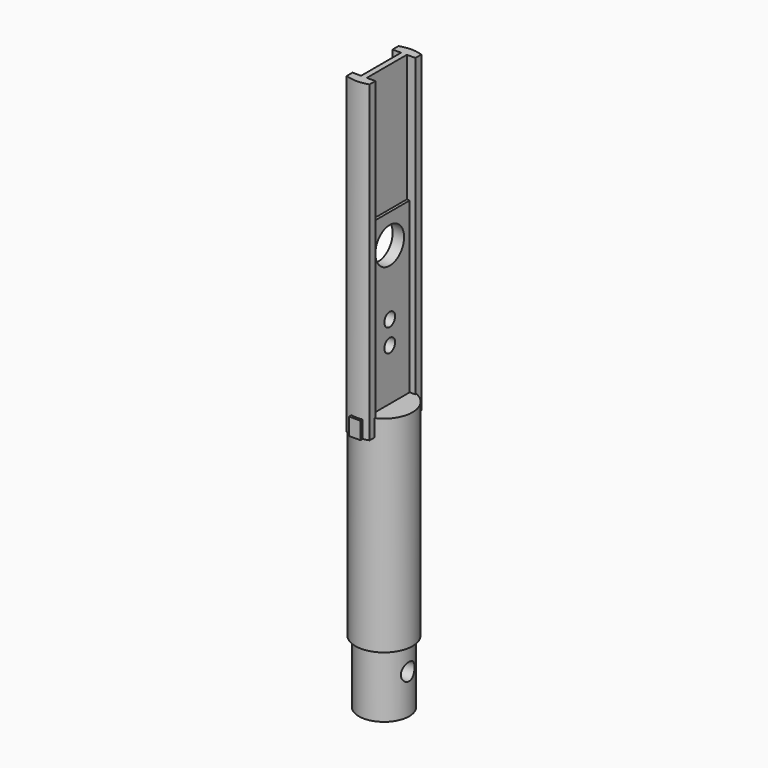
from build123d import *

# Parameters (mm, degrees)
BOX002_W          = 1
BOX002_H          = 6.4
BOX002_DEPTH      = 1.5
BOX006_W          = 10
BOX006_H          = 4.37
BOX006_DEPTH      = 12
BOX005_W          = 10
BOX005_H          = 4.37
BOX005_DEPTH      = 12
CYLINDER008_R     = 0.59
CYLINDER008_DEPTH = 50
CYLINDER007_R     = 0.59
CYLINDER007_DEPTH = 50
BOX003_W          = 10
BOX003_H          = 4.37
BOX003_DEPTH      = 26
BOX004_W          = 10
BOX004_H          = 4.37
BOX004_DEPTH      = 26
BOX001_W          = 10
BOX001_H          = 5.5
BOX001_DEPTH      = 27
CYLINDER006_R     = 1.57
CYLINDER006_DEPTH = 20
CYLINDER003_R     = 1.1
CYLINDER003_DEPTH = 2
BOX_W             = 2
BOX_H             = 10
BOX_DEPTH         = 27.9
CYLINDER004_R     = 3
CYLINDER004_DEPTH = 27.4
CYLINDER005_R     = 1
CYLINDER005_DEPTH = 5.5
CYLINDER002_R     = 0.75
CYLINDER002_DEPTH = 6.2
CYLINDER001_R     = 2.5
CYLINDER001_DEPTH = 18
CYLINDER_R        = 2.2
CYLINDER_DEPTH    = 21.5


with BuildPart() as obj1:
    # Box002 → Box002 (new body)
    with BuildSketch(Plane(origin=(-0.5, -3.2, 21.5), x_dir=(1, 0, 0), z_dir=(0, 0, 1))):
        with Locations((0.5, 3.2)):
            Rectangle(BOX002_W, BOX002_H)
    extrude(amount=BOX002_DEPTH)


with BuildPart() as obj2:
    # Box006 → Box006 (new body)
    with BuildSketch(Plane(origin=(-10.25, -2.19, 36.77), x_dir=(1, 0, 0), z_dir=(0, 0, 1))):
        with Locations((5, 2.185)):
            Rectangle(BOX006_W, BOX006_H)
    extrude(amount=BOX006_DEPTH)


with BuildPart() as fusion004:
    # Box005 → Box005 (new body)
    with BuildSketch(Plane(origin=(0.25, -2.19, 36.77), x_dir=(1, 0, 0), z_dir=(0, 0, 1))):
        with Locations((5, 2.185)):
            Rectangle(BOX005_W, BOX005_H)
    extrude(amount=BOX005_DEPTH)

    # Fusion004: union obj2
    add(obj2.part)


with BuildPart() as fusion004_1:
    # Fusion004 placement: moved
    add(fusion004.part.moved(Location((0, 0, 1))))


with BuildPart() as m1_6_thread2:
    # Cylinder008 → Cylinder008 (new body)
    with BuildSketch(Plane(origin=(-4, 0, 27.5), x_dir=(0, 0, -1), z_dir=(1, 0, 0))):
        Circle(CYLINDER008_R)
    extrude(amount=CYLINDER008_DEPTH)


with BuildPart() as mirrormountingholes:
    # Cylinder007 → Cylinder007 (new body)
    with BuildSketch(Plane(origin=(-4, 0, 29.5), x_dir=(0, 0, -1), z_dir=(1, 0, 0))):
        Circle(CYLINDER007_R)
    extrude(amount=CYLINDER007_DEPTH)

    # Fusion003: union M1_6__Thread2
    add(m1_6_thread2.part)


with BuildPart() as obj3:
    # Box003 → Box003 (new body)
    with BuildSketch(Plane(origin=(0.5, -2.19, 23), x_dir=(1, 0, 0), z_dir=(0, 0, 1))):
        with Locations((5, 2.185)):
            Rectangle(BOX003_W, BOX003_H)
    extrude(amount=BOX003_DEPTH)


with BuildPart() as mirrorgrooves:
    # Box004 → Box004 (new body)
    with BuildSketch(Plane(origin=(-10.5, -2.19, 23), x_dir=(1, 0, 0), z_dir=(0, 0, 1))):
        with Locations((5, 2.185)):
            Rectangle(BOX004_W, BOX004_H)
    extrude(amount=BOX004_DEPTH)

    # Fusion002: union obj3
    add(obj3.part)


with BuildPart() as obj4:
    # Box001 → Box001 (new body)
    with BuildSketch(Plane(origin=(1, -2.57, 21), x_dir=(1, 0, 0), z_dir=(0, 0, 1))):
        with Locations((5, 2.75)):
            Rectangle(BOX001_W, BOX001_H)
    extrude(amount=BOX001_DEPTH)


with BuildPart() as probehole:
    # Cylinder006 → Cylinder006 (new body)
    with BuildSketch(Plane(origin=(-4, 0, 35.2), x_dir=(0, 0, -1), z_dir=(1, 0, 0))):
        Circle(CYLINDER006_R)
    extrude(amount=CYLINDER006_DEPTH)


with BuildPart() as beamhole:
    # Cylinder003 → Cylinder003 (new body)
    with BuildSketch(Plane(origin=(-1, 0, 35.2), x_dir=(0, 0, -1), z_dir=(1, 0, 0))):
        Circle(CYLINDER003_R)
    extrude(amount=CYLINDER003_DEPTH)


with BuildPart() as obj5:
    # Box → Box (new body)
    with BuildSketch(Plane(origin=(-1, -5, 21), x_dir=(1, 0, 0), z_dir=(0, 0, 1))):
        with Locations((1, 5)):
            Rectangle(BOX_W, BOX_H)
    extrude(amount=BOX_DEPTH)


with BuildPart() as cut004:
    # Cylinder004 → Cylinder004 (new body)
    with BuildSketch(Plane.XY.offset(21.5)):
        Circle(CYLINDER004_R)
    extrude(amount=CYLINDER004_DEPTH)

    # Common: intersect obj5
    add(obj5.part, mode=Mode.INTERSECT)

    # Cut001: cut BeamHole
    add(beamhole.part, mode=Mode.SUBTRACT)

    # Cut003: cut ProbeHole
    add(probehole.part, mode=Mode.SUBTRACT)

    # Cut004: cut obj4
    add(obj4.part, mode=Mode.SUBTRACT)


with BuildPart() as zylinder005:
    # Cylinder005 → Cylinder005 (new body)
    with BuildSketch(Plane.XY.offset(-0.5)):
        Circle(CYLINDER005_R)
    extrude(amount=CYLINDER005_DEPTH)


with BuildPart() as zylinder002:
    # Cylinder002 → Cylinder002 (new body)
    with BuildSketch(Plane(origin=(-3.25, 0, 2.95), x_dir=(0, 0, -1), z_dir=(1, 0, 0))):
        Circle(CYLINDER002_R)
    extrude(amount=CYLINDER002_DEPTH)


with BuildPart() as zylinder001:
    # Cylinder001 → Cylinder001 (new body)
    with BuildSketch(Plane.XY.offset(5)):
        Circle(CYLINDER001_R)
    extrude(amount=CYLINDER001_DEPTH)


with BuildPart() as cut007:
    # Cylinder → Cylinder (new body)
    with BuildSketch(Plane.XY.offset(-0.5)):
        Circle(CYLINDER_R)
    extrude(amount=CYLINDER_DEPTH)

    # Fusion: union Zylinder001
    add(zylinder001.part)

    # Cut: cut Zylinder002
    add(zylinder002.part, mode=Mode.SUBTRACT)

    # Cut002: cut Zylinder005
    add(zylinder005.part, mode=Mode.SUBTRACT)

    # Fusion001: union Cut004
    add(cut004.part)

    # Cut005: cut MirrorGrooves
    add(mirrorgrooves.part, mode=Mode.SUBTRACT)

    # Cut006: cut MirrorMountingHoles
    add(mirrormountingholes.part, mode=Mode.SUBTRACT)

    # Cut007: cut Fusion004
    add(fusion004_1.part, mode=Mode.SUBTRACT)


solid = Compound([obj1.part, cut007.part])
